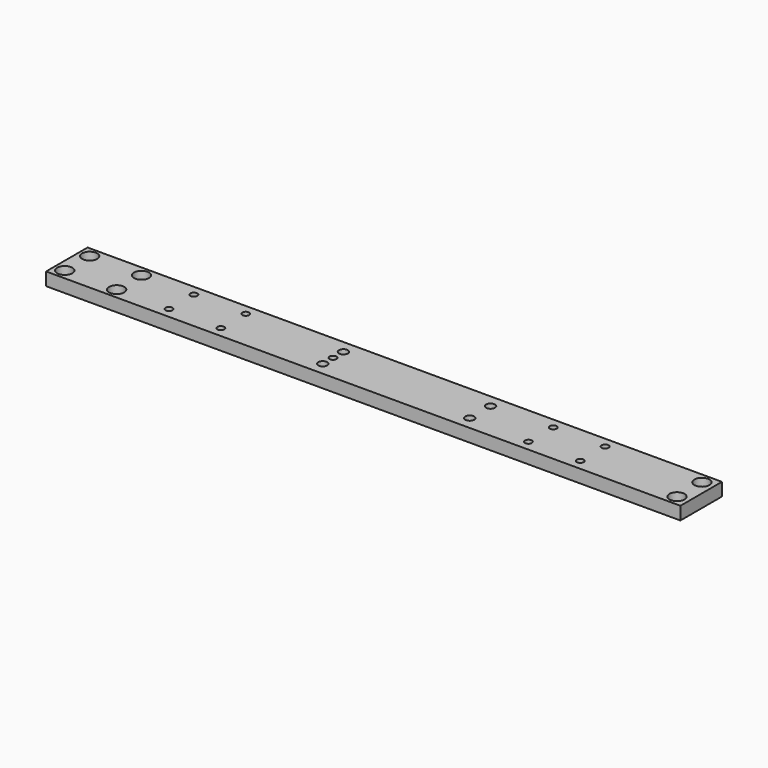
from build123d import *

# Parameters (mm, degrees)
F0_W           = 465.86
F0_H           = 38.1
F1_DEPTH       = 9.53
F3_D           = 6.76
F3_CBORE_D     = 11.11
F3_CBORE_DEPTH = 6.35
F4_D           = 5.11
F5_D           = 5.11
F7_D           = 6.6
F8_D           = 5.11


with BuildPart() as f1:
    # F0 (on Top) → F1 (new body)
    with BuildSketch(Plane.XY):
        with Locations((5.66379, -48.684705)):
            Rectangle(F0_W, F0_H)
    extrude(amount=F1_DEPTH)

    # F3 (through all)
    with Locations(Plane.XY.offset(9.53)):
        with Locations((-219.64621, -37.254705), (-219.64621, -60.114705), (-181.54621, -60.114705), (-181.54621, -37.254705), (229.99379, -60.114705), (229.99379, -37.254705)):
            CounterBoreHole(F3_D / 2, F3_CBORE_D / 2, F3_CBORE_DEPTH)

    # F4 (through all)
    with Locations(Plane.XY.offset(9.53)):
        with Locations((-143.08621, -37.254705)):
            Hole(F4_D / 2)

    # F5 (through all)
    with Locations(Plane.XY.offset(9.53)):
        with Locations((-143.08621, -60.114705), (-104.98621, -60.114705), (-104.98621, -37.254705), (-143.08621, -37.254705), (120.82379, -37.254705), (158.92379, -37.254705), (158.92379, -60.114705), (120.82379, -60.114705)):
            Hole(F5_D / 2)

    # F7 (through all)
    with Locations(Plane.XY.offset(9.53)):
        with Locations((76.264279, -39.154705), (76.264279, -58.204705), (-31.75621, -58.204705), (-31.75621, -39.154705)):
            Hole(F7_D / 2)

    # F8 (through all)
    with Locations(Plane.XY.offset(9.53)):
        with Locations((-31.75621, -48.684705)):
            Hole(F8_D / 2)


solid = f1.part
